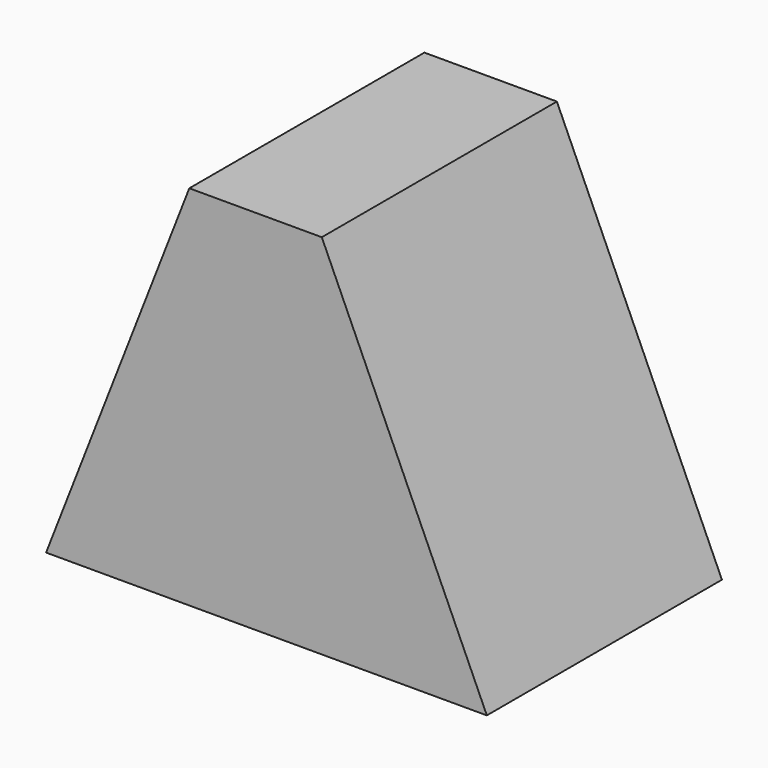
from build123d import *

# Parameters (mm, degrees)
F0_W     = 38.1
F0_H     = 31.75
F1_DEPTH = 25.4
F3_DEPTH = 25.4


with BuildPart() as f1:
    # F0 (on Front) → F1 (new body)
    with BuildSketch(Plane.XZ):
        with Locations((19.05, 15.875)):
            Rectangle(F0_W, F0_H)
    extrude(amount=F1_DEPTH)

    # F2 (on face) → F3 (cut)
    with BuildSketch(Plane.XZ.offset(25.4)):
        Polygon((0, 31.75), (0, 0), (12.380657, 31.75), align=None)
        Polygon((38.1, 31.75), (23.832766, 31.75), (38.1, 0), align=None)
    extrude(amount=-F3_DEPTH, mode=Mode.SUBTRACT)


solid = f1.part
